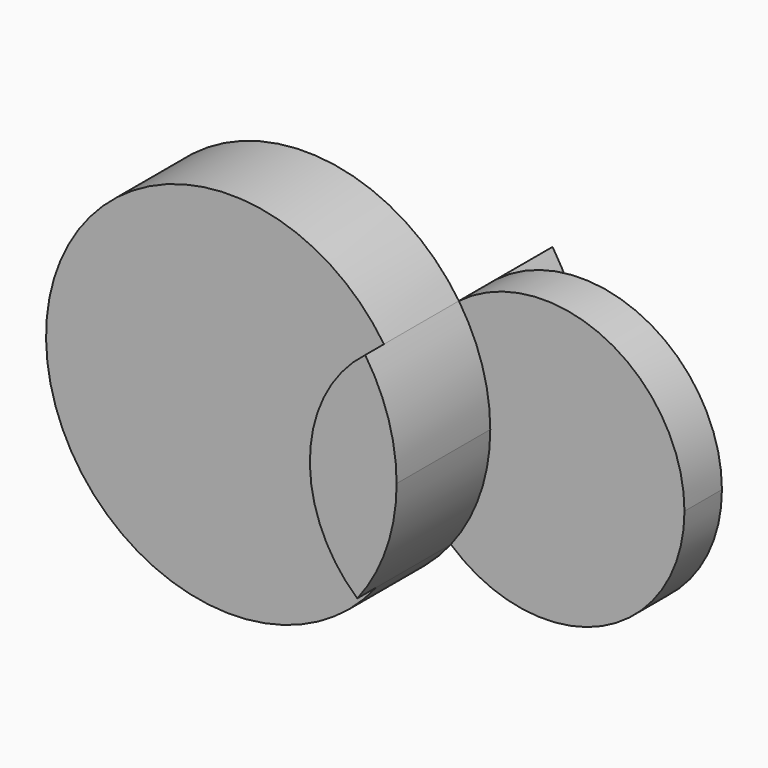
from build123d import *

# Parameters (mm, degrees)
F1_DEPTH = 25.4
F2_DEPTH = 12.7
F3_DEPTH = 31.75


with BuildPart() as f1:
    # F0 (on Front) → F1 (new body)
    with BuildSketch(Plane.XZ):
        with BuildLine():
            ThreePointArc((-25.250333, -28.531223), (-38.074135, 1.403656), (-23.080958, 30.313023))
            ThreePointArc((-23.080958, 30.313023), (-114.697565, 4.228486), (-25.250333, -28.531223))
        make_face()
    extrude(amount=F1_DEPTH)


with BuildPart() as f2:
    # F0 (on Front) → F2 (new body)
    with BuildSketch(Plane.XZ):
        with BuildLine():
            ThreePointArc((-25.250333, -28.531223), (15.645643, -34.73937), (38.1, 0))
            ThreePointArc((38.1, 0), (16.914868, 34.13938), (-23.080958, 30.313023))
            ThreePointArc((-23.080958, 30.313023), (-16.744747, 16.982266), (-14.569701, 2.383436))
            ThreePointArc((-14.569701, 2.383436), (-17.31511, -13.970402), (-25.250333, -28.531223))
        make_face()
    extrude(amount=-F2_DEPTH)


with BuildPart() as f3:
    # F0 (on Front) → F3 (new body, symmetric)
    with BuildSketch(Plane.XZ):
        with BuildLine():
            ThreePointArc((-14.569701, 2.383436), (-16.744747, 16.982266), (-23.080958, 30.313023))
            ThreePointArc((-23.080958, 30.313023), (-38.074135, 1.403656), (-25.250333, -28.531223))
            ThreePointArc((-25.250333, -28.531223), (-17.31511, -13.970402), (-14.569701, 2.383436))
        make_face()
    extrude(amount=F3_DEPTH, both=True)


solid = Compound([f1.part, f2.part, f3.part])
